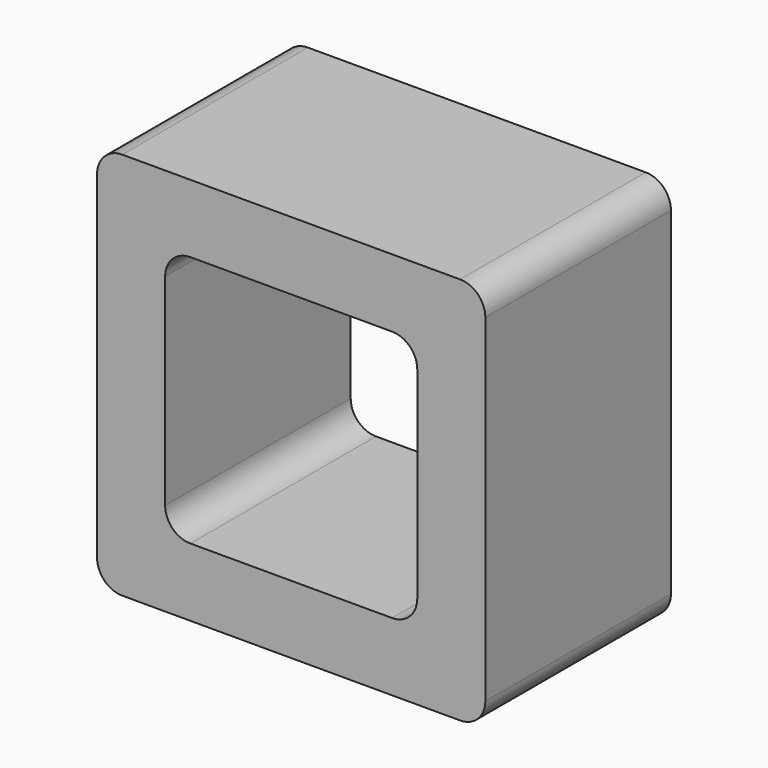
from build123d import *

# Parameters (mm, degrees)
F0_W     = 7.7
F0_H     = 7.7
F0_W_2   = 5
F0_H_2   = 5
F1_DEPTH = 4.6
F2_R     = 0.5
F3_R     = 0.5


with BuildPart() as f1:
    # F0 (on Front) → F1 (new body)
    with BuildSketch(Plane.XZ):
        Rectangle(F0_W, F0_H)
        Rectangle(F0_W_2, F0_H_2, mode=Mode.SUBTRACT)
    extrude(amount=F1_DEPTH)

    # F2
    f2_edges = [f1.edges().sort_by_distance(p)[0] for p in [
        (2.5, -2.3, 2.5),
        (-2.5, -2.3, 2.5),
        (2.5, -2.3, -2.5),
        (-2.5, -2.3, -2.5),
    ]]
    fillet(f2_edges, radius=F2_R)

    # F3
    f3_edges = [f1.edges().sort_by_distance(p)[0] for p in [
        (3.85, -2.3, 3.85),
        (3.85, -2.3, -3.85),
        (-3.85, -2.3, -3.85),
        (-3.85, -2.3, 3.85),
    ]]
    fillet(f3_edges, radius=F3_R)


solid = f1.part
